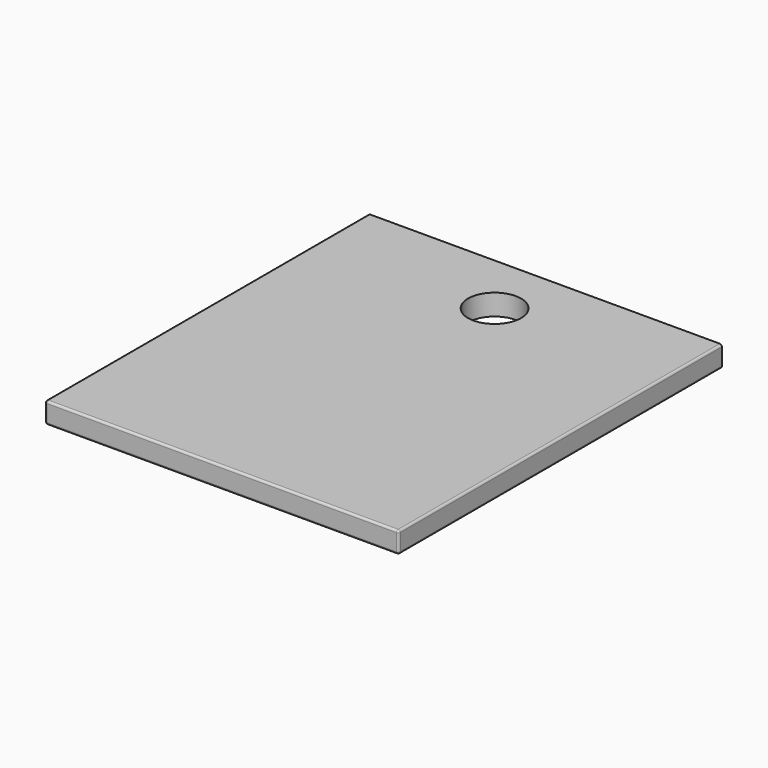
from build123d import *

# Parameters (mm, degrees)
F0_W     = 533.4
F0_H     = 609.6
F1_DEPTH = 31.75
F2_R     = 3.175
F3_R     = 40
F4_DEPTH = 31.751


with BuildPart() as f1:
    # F0 (on Top) → F1 (new body)
    with BuildSketch(Plane.XY):
        Rectangle(F0_W, F0_H)
    extrude(amount=F1_DEPTH)

    # F2
    f2_edges = [f1.edges().sort_by_distance(p)[0] for p in [
        (0, -304.8, 31.75),
        (-266.7, 0, 31.75),
        (266.7, 0, 31.75),
        (266.7, 0, 0),
        (0, -304.8, 0),
        (-266.7, 0, 0),
        (-266.7, -304.8, 15.875),
        (266.7, -304.8, 15.875),
    ]]
    fillet(f2_edges, radius=F2_R)

    # F3 (on face) → F4 (cut, through all)
    with BuildSketch(Plane.XY.offset(31.75)):
        with Locations((0, 209.55)):
            Circle(F3_R)
    extrude(amount=-F4_DEPTH, mode=Mode.SUBTRACT)


solid = f1.part
